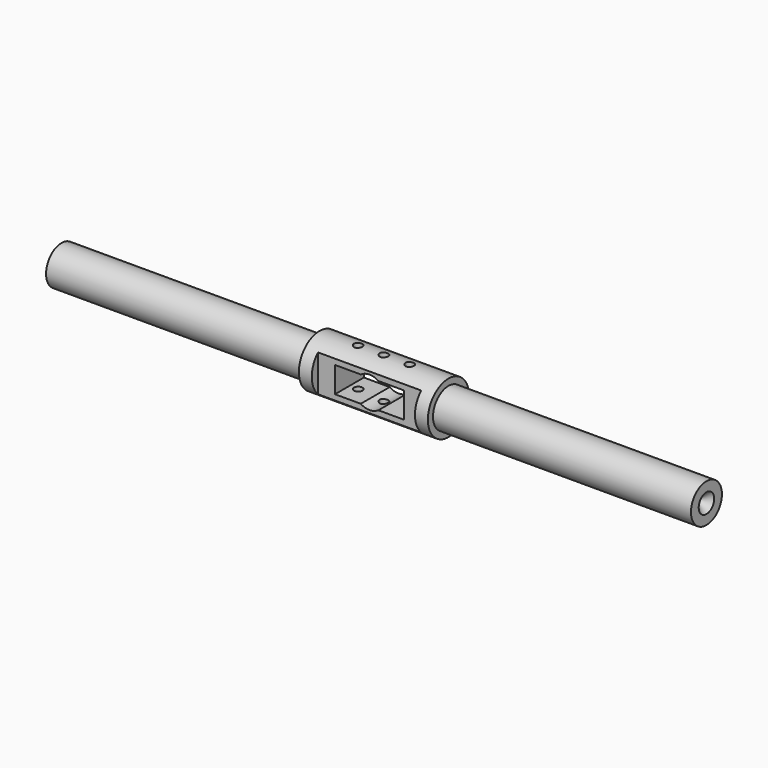
from build123d import *

# Parameters (mm, degrees)
F3_W      = 40
F3_H      = 5
F4_DEPTH  = 35.001
F6_D      = 12.1
F9_D      = 3.3
F11_DEPTH = 17.0010001


with BuildPart() as f1:
    # F0 (on Front) → F1 (revolve)
    with BuildSketch(Plane.XZ):
        Polygon((-125, 7.5), (-125, 3.75), (-121.25, 0), (121.25, 0), (125, 3.75), (125, 7.5), (25, 7.5), (25, 10), (-25, 10), (-25, 7.5), align=None)
    revolve(axis=Axis((-80.2068784833, 0, 0), (1, 0, 0)))

    # F3 (on offset) → F4 (cut, through all)
    with BuildSketch(Plane.XY.offset(25)):
        with Locations((0, 9.5)):
            Rectangle(F3_W, F3_H)
        with Locations((0, -9.5)):
            Rectangle(F3_W, F3_H)
    extrude(amount=-F4_DEPTH, mode=Mode.SUBTRACT)

    # F6 (through all)
    with Locations(Plane(origin=(0, 7, 0), x_dir=(-1, 0, 0), z_dir=(0, 1, 0))):
        with Locations((0, 0)):
            Hole(F6_D / 2)

    # F9 (through all)
    with Locations(Plane(origin=(0, 0, -10), x_dir=(1, 0, 0), z_dir=(0, 0, -1))):
        with Locations((0, 0), (-10, 0), (10, 0)):
            Hole(F9_D / 2)

    # F10 (on face) → F11 (cut, through all)
    with BuildSketch(Plane(origin=(0, 7, 0), x_dir=(-1, 0, 0), z_dir=(0, 1, 0))):
        with BuildLine():
            Line((3.4062442661, -5), (13.4062442661, -5))
            Line((13.4062442661, -5), (13.4062442661, 5))
            Line((13.4062442661, 5), (3.4062442661, 5))
            ThreePointArc((3.4062442661, 5), (6.05, 0), (3.4062442661, -5))
        make_face()
        with BuildLine():
            Line((-13.4062442661, 5), (-13.4062442661, -5))
            Line((-13.4062442661, -5), (-3.4062442661, -5))
            ThreePointArc((-3.4062442661, -5), (-6.05, 0), (-3.4062442661, 5))
            Line((-3.4062442661, 5), (-13.4062442661, 5))
        make_face()
    extrude(amount=-F11_DEPTH, mode=Mode.SUBTRACT)


solid = f1.part
